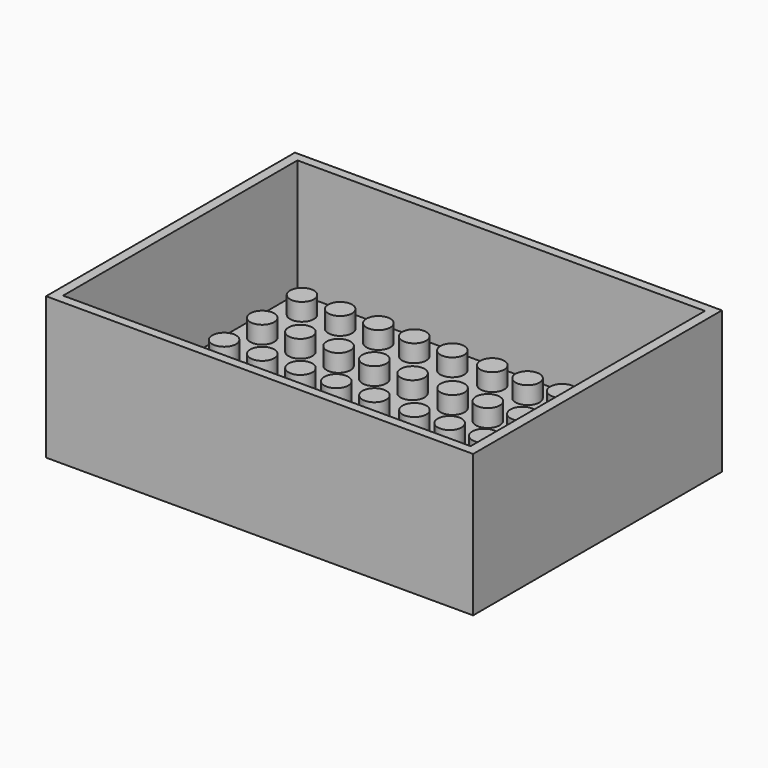
from build123d import *

# Parameters (mm, degrees)
F0_R     = 2.5853808969
F1_DEPTH = 3.78621
F2_W     = 92.5128534436
F2_H     = 67.3747956753
F2_W_2   = 88.2868915796
F2_H_2   = 63.4562075138
F3_DEPTH = 25.4
F4_W     = 92.5128534436
F4_H     = 67.3747956753
F5_DEPTH = 5.39071


with BuildPart() as f1:
    # F0 (on Top) → F1 (new body)
    with BuildSketch(Plane.XY):
        with Locations((-6.1489455687, 15.4150508655)):
            Circle(F0_R)
        with Locations((-38.6942066252, 26.1586811393)):
            Circle(F0_R)
        with Locations((-22.1503593461, 26.1586811393)):
            Circle(F0_R)
        with Locations((10.1477103229, -15.5244964796)):
            Circle(F0_R)
        with Locations((-30.1908456923, -25.8376869994)):
            Circle(F0_R)
        with Locations((-22.1749195264, -15.5244964796)):
            Circle(F0_R)
        with Locations((25.4185836632, 26.1586811393)):
            Circle(F0_R)
        with Locations((25.3940272081, 15.4150508655)):
            Circle(F0_R)
        with Locations((10.1477084602, -5.211315273)):
            Circle(F0_R)
        with Locations((-30.4178264261, 26.1586811393)):
            Circle(F0_R)
        with Locations((17.6428148795, -15.5244964796)):
            Circle(F0_R)
        with Locations((25.3940216202, -5.211315273)):
            Circle(F0_R)
        with Locations((10.1477140482, 15.4150508655)):
            Circle(F0_R)
        with Locations((-22.1749158012, 15.4150508655)):
            Circle(F0_R)
        with Locations((-14.4147922161, 15.4150508655)):
            Circle(F0_R)
        with Locations((17.6428186047, 15.4150508655)):
            Circle(F0_R)
        with Locations((17.6428130168, -5.211315273)):
            Circle(F0_R)
        with Locations((-22.1749213891, -5.211315273)):
            Circle(F0_R)
        with Locations((32.1207015841, 15.4150508655)):
            Circle(F0_R)
        with Locations((-21.9233786123, -25.8376869994)):
            Circle(F0_R)
        with Locations((25.3940234828, -15.5244964796)):
            Circle(F0_R)
        with Locations((-38.7187686683, -5.211315273)):
            Circle(F0_R)
        with Locations((-30.4423907975, 5.1018668649)):
            Circle(F0_R)
        with Locations((39.3573794852, -15.5244964796)):
            Circle(F0_R)
        with Locations((39.3819396656, 26.1586811393)):
            Circle(F0_R)
        with Locations((-30.4423866065, -15.5244964796)):
            Circle(F0_R)
        with Locations((17.6673750598, 26.1586811393)):
            Circle(F0_R)
        with Locations((-14.390235761, 26.1586811393)):
            Circle(F0_R)
        with Locations((2.7696161597, -25.8376869994)):
            Circle(F0_R)
        with Locations((-5.8974083799, -25.8376869994)):
            Circle(F0_R)
        with Locations((2.5180789708, 15.4150508655)):
            Circle(F0_R)
        with Locations((-6.1489511567, -5.211315273)):
            Circle(F0_R)
        with Locations((32.1206936679, 5.1018668649)):
            Circle(F0_R)
        with Locations((-22.1749237174, 5.1018668649)):
            Circle(F0_R)
        with Locations((-38.7187630803, 15.4150508655)):
            Circle(F0_R)
        with Locations((-14.1632550272, -25.8376869994)):
            Circle(F0_R)
        with Locations((2.5426354259, 26.1586811393)):
            Circle(F0_R)
        with Locations((-6.1243891136, 26.1586811393)):
            Circle(F0_R)
        with Locations((32.1452580392, 26.1586811393)):
            Circle(F0_R)
        with Locations((10.1722705033, 26.1586811393)):
            Circle(F0_R)
        with Locations((-38.7187709966, 5.1018668649)):
            Circle(F0_R)
        with Locations((39.3573752943, 5.1018668649)):
            Circle(F0_R)
        with Locations((2.5180733829, -5.211315273)):
            Circle(F0_R)
        with Locations((17.8943557936, -25.8376869994)):
            Circle(F0_R)
        with Locations((-14.4148001324, 5.1018668649)):
            Circle(F0_R)
        with Locations((-38.4672258914, -25.8376869994)):
            Circle(F0_R)
        with Locations((2.5180710546, 5.1018668649)):
            Circle(F0_R)
        with Locations((32.372238773, -25.8376869994)):
            Circle(F0_R)
        with Locations((39.3573832105, 15.4150508655)):
            Circle(F0_R)
        with Locations((39.3573776226, -5.211315273)):
            Circle(F0_R)
        with Locations((-30.4423828812, 15.4150508655)):
            Circle(F0_R)
        with Locations((2.5180752455, -15.5244964796)):
            Circle(F0_R)
        with Locations((10.1477061319, 5.1018668649)):
            Circle(F0_R)
        with Locations((-30.4423884691, -5.211315273)):
            Circle(F0_R)
        with Locations((39.6089203994, -25.8376869994)):
            Circle(F0_R)
        with Locations((-6.148953485, 5.1018668649)):
            Circle(F0_R)
        with Locations((32.1206978588, -15.5244964796)):
            Circle(F0_R)
        with Locations((-14.4147959414, -15.5244964796)):
            Circle(F0_R)
        with Locations((25.645564397, -25.8376869994)):
            Circle(F0_R)
        with Locations((25.3940192918, 5.1018668649)):
            Circle(F0_R)
        with Locations((-38.7187668056, -15.5244964796)):
            Circle(F0_R)
        with Locations((-6.148949294, -15.5244964796)):
            Circle(F0_R)
        with Locations((10.399251237, -25.8376869994)):
            Circle(F0_R)
        with Locations((17.6428106885, 5.1018668649)):
            Circle(F0_R)
        with Locations((32.1206959962, -5.211315273)):
            Circle(F0_R)
        with Locations((-14.4147978041, -5.211315273)):
            Circle(F0_R)
    extrude(amount=F1_DEPTH)



with BuildPart() as f3:
    # F2 (on Top) → F3 (new body)
    with BuildSketch(Plane.XY):
        Rectangle(F2_W, F2_H)
        Rectangle(F2_W_2, F2_H_2, mode=Mode.SUBTRACT)
    extrude(amount=F3_DEPTH)


with BuildPart() as f1_1:
    add(f1.part)

    add(f3.part)  # F5 merges F3
    # F4 (on face) → F5 (join)
    with BuildSketch(Plane(origin=(0, 0, 0), x_dir=(1, 0, 0), z_dir=(0, 0, -1))):
        Rectangle(F4_W, F4_H)
    extrude(amount=F5_DEPTH)


solid = f1_1.part
